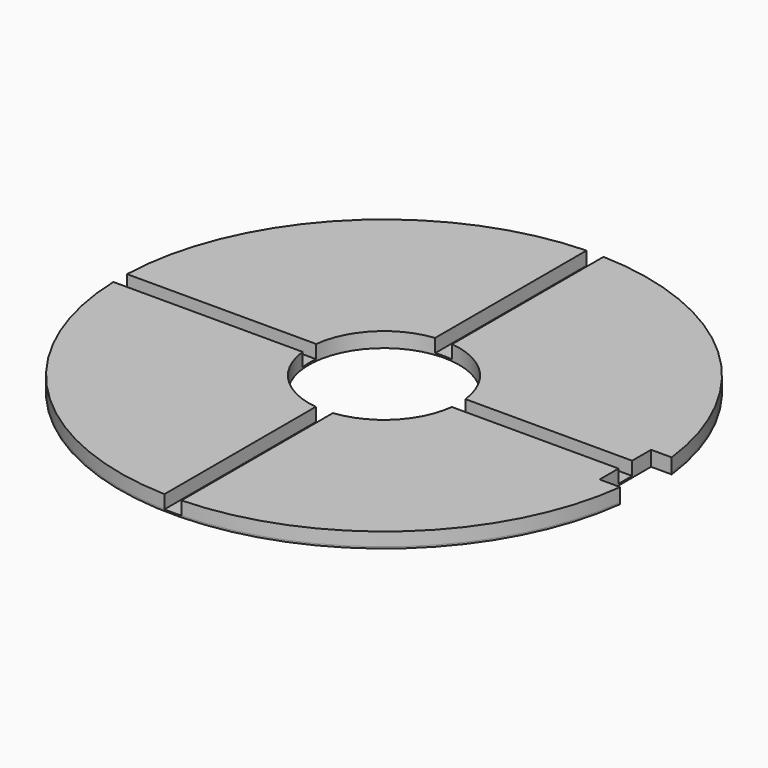
from build123d import *

# Parameters (mm, degrees)
SKETCH_R           = 98.425
PAD_DEPTH          = 0.6
PAD001_DEPTH       = 5
POLARPATTERN_COUNT = 4
SKETCH002_R        = 28
POCKET_DEPTH       = 5.601
SKETCH003_W        = 15
SKETCH003_H        = 24
POCKET001_DEPTH    = 5.601


with BuildPart() as part:
    # Sketch → Pad (new body)
    with BuildSketch(Plane.XY):
        Circle(SKETCH_R)
    extrude(amount=-PAD_DEPTH)

    # Sketch001 → Pad001 (new body)
    with BuildSketch(Plane.XY):
        with BuildLine():
            ThreePointArc((3.175, -21.997045), (15.715448, -15.715448), (21.997045, -3.175))
            Line((21.997045, -3.175), (98.373777, -3.175))
            ThreePointArc((3.175, -98.373777), (69.596985, -69.596985), (98.373777, -3.175))
            Line((3.175, -21.997045), (3.175, -98.373777))
        make_face()
    pad001 = extrude(amount=PAD001_DEPTH)

    # PolarPattern: Pad001 ×4 about axis
    polarpattern_axis = Axis((0, 0, 0), (0, 0, 1))
    for i in range(1, POLARPATTERN_COUNT):
        add(pad001.rotate(polarpattern_axis, i * 360 / POLARPATTERN_COUNT))

    # Sketch002 → Pocket (cut, through all)
    with BuildSketch(Plane.XY.offset(5)):
        Circle(SKETCH002_R)
    extrude(amount=-POCKET_DEPTH, mode=Mode.SUBTRACT)

    # Sketch003 → Pocket001 (cut, through all)
    with BuildSketch(Plane(origin=(0, 0, -0.6), x_dir=(1, 0, 0), z_dir=(0, 0, -1))):
        with Locations((97.5, 0)):
            Rectangle(SKETCH003_W, SKETCH003_H)
    extrude(amount=-POCKET001_DEPTH, mode=Mode.SUBTRACT)


solid = part.part
